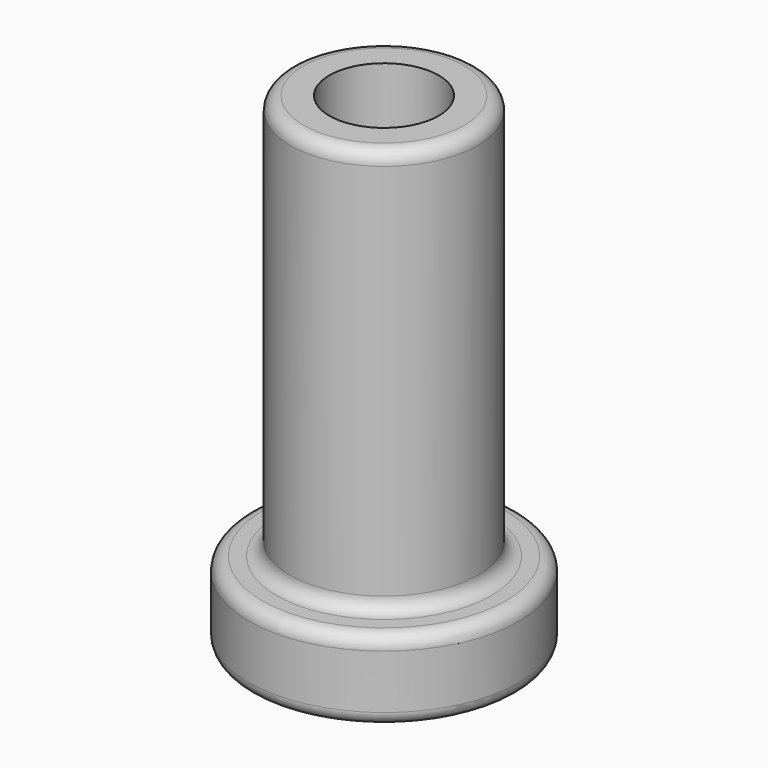
from build123d import *

# Parameters (mm, degrees)
F2_R = 0.5


with BuildPart() as f1:
    # F0 (on Front) → F1 (revolve)
    with BuildSketch(Plane.XZ):
        Polygon((2.025, 18), (2.025, 0), (5, 0), (5, 3), (3.475, 3), (3.475, 18), align=None)
    revolve(axis=Axis((0, 0, 20), (0, 0, 1)))

    # F2
    f2_edges = [f1.edges().sort_by_distance(p)[0] for p in [
        (-3.475, 0, 3),
        (-3.475, 0, 18),
        (3.475, 0, 10.5),
        (-5, 0, 0),
        (-5, 0, 3),
        (5, 0, 1.5),
    ]]
    fillet(f2_edges, radius=F2_R)


solid = f1.part
